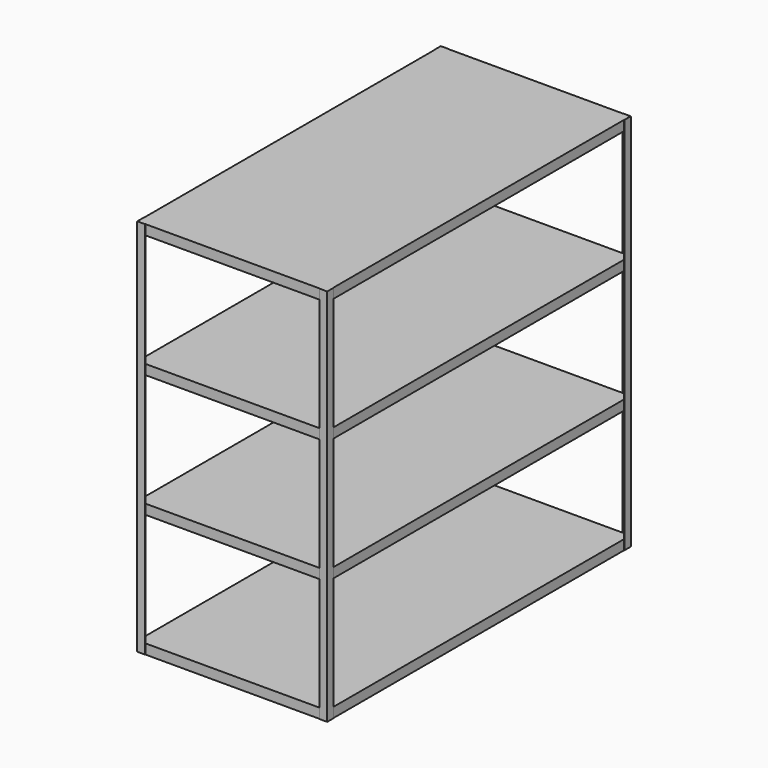
from build123d import *

# Parameters (mm, degrees)
F0_W          = 914.4
F0_H          = 1828.8
F1_DEPTH      = 47.625
F3_DEPTH      = 1781.175
F3_DEPTH_BACK = 47.625
F5_W          = 914.4
F5_H          = 1828.8
F6_DEPTH      = 47.625
F8_W          = 914.4
F8_H          = 1828.8
F9_DEPTH      = 47.625
F11_W         = 914.4
F11_H         = 1828.8
F12_DEPTH     = 47.7012


with BuildPart() as f1:
    # F0 (on Top) → F1 (new body)
    with BuildSketch(Plane.XY):
        Rectangle(F0_W, F0_H)
    extrude(amount=F1_DEPTH)

    # F2 (on face) → F3 (join, two sides)
    with BuildSketch(Plane.XY.offset(47.625)) as f3_sk:
        Polygon((458.47, -915.67), (458.47, -877.57), (457.2, -877.57), (457.2, -914.4), (420.37, -914.4), (420.37, -915.67), align=None)
        Polygon((-458.47, -915.67), (-420.37, -915.67), (-420.37, -914.4), (-457.2, -914.4), (-457.2, -877.57), (-458.47, -877.57), align=None)
        Polygon((-458.47, 915.67), (-458.47, 877.57), (-457.2, 877.57), (-457.2, 914.4), (-420.37, 914.4), (-420.37, 915.67), align=None)
        Polygon((458.47, 915.67), (420.37, 915.67), (420.37, 914.4), (457.2, 914.4), (457.2, 877.57), (458.47, 877.57), align=None)
    extrude(amount=F3_DEPTH)
    extrude(f3_sk.sketch, amount=-F3_DEPTH_BACK)

    # F5 (on offset) → F6 (join)
    with BuildSketch(Plane.XY.offset(593.725)):
        Rectangle(F5_W, F5_H)
    extrude(amount=F6_DEPTH)

    # F8 (on offset) → F9 (join)
    with BuildSketch(Plane.XY.offset(1187.45)):
        Rectangle(F8_W, F8_H)
    extrude(amount=F9_DEPTH)

    # F11 (on offset) → F12 (join)
    with BuildSketch(Plane.XY.offset(1781.175)):
        Rectangle(F11_W, F11_H)
    extrude(amount=F12_DEPTH)


solid = f1.part
